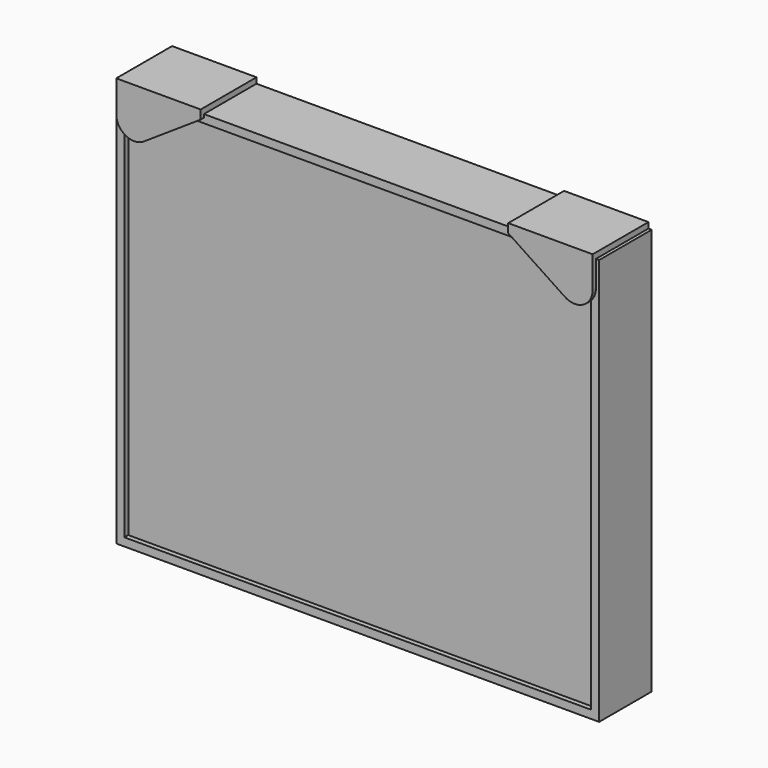
from build123d import *

# Parameters (mm, degrees)
F0_W          = 59.5
F0_H          = 50.1
F1_DEPTH      = 8.1
F2_W          = 57.5
F2_H          = 48.1
F3_DEPTH      = 0.6
F4_W          = 51.5
F4_H          = 42.1
F5_DEPTH      = 4
F7_DEPTH      = 0.5
F7_DEPTH_BACK = 8.1


with BuildPart() as f1:
    # F0 (on Front) → F1 (new body)
    with BuildSketch(Plane.XZ):
        Rectangle(F0_W, F0_H)
    extrude(amount=F1_DEPTH)

    # F2 (on face) → F3 (cut)
    with BuildSketch(Plane.XZ.offset(8.1)):
        Rectangle(F2_W, F2_H)
    extrude(amount=-F3_DEPTH, mode=Mode.SUBTRACT)

    # F4 (on face) → F5 (cut)
    with BuildSketch(Plane(origin=(0, 0, 0), x_dir=(-1, 0, 0), z_dir=(0, 1, 0))):
        Rectangle(F4_W, F4_H)
    extrude(amount=-F5_DEPTH, mode=Mode.SUBTRACT)

    # F6 (on face) → F7 (join, two sides)
    with BuildSketch(Plane.XZ.offset(8.1)) as f7_sk:
        with BuildLine():
            ThreePointArc((25.93377, 20.016756), (28.190263, 19.911482), (29.35, 21.85))
            Line((29.35, 21.85), (29.35, 25.75))
            Line((29.35, 25.75), (18.95, 25.75))
            Line((18.95, 25.75), (18.95, 24.65))
            Line((18.95, 24.65), (25.93377, 20.016756))
        make_face()
        with BuildLine():
            Line((-18.95, 24.65), (-18.95, 25.75))
            Line((-18.95, 25.75), (-29.35, 25.75))
            Line((-29.35, 25.75), (-29.35, 21.85))
            ThreePointArc((-29.35, 21.85), (-28.190263, 19.911482), (-25.93377, 20.016756))
            Line((-25.93377, 20.016756), (-18.95, 24.65))
        make_face()
    extrude(amount=F7_DEPTH)
    extrude(f7_sk.sketch, amount=-F7_DEPTH_BACK)


solid = f1.part
